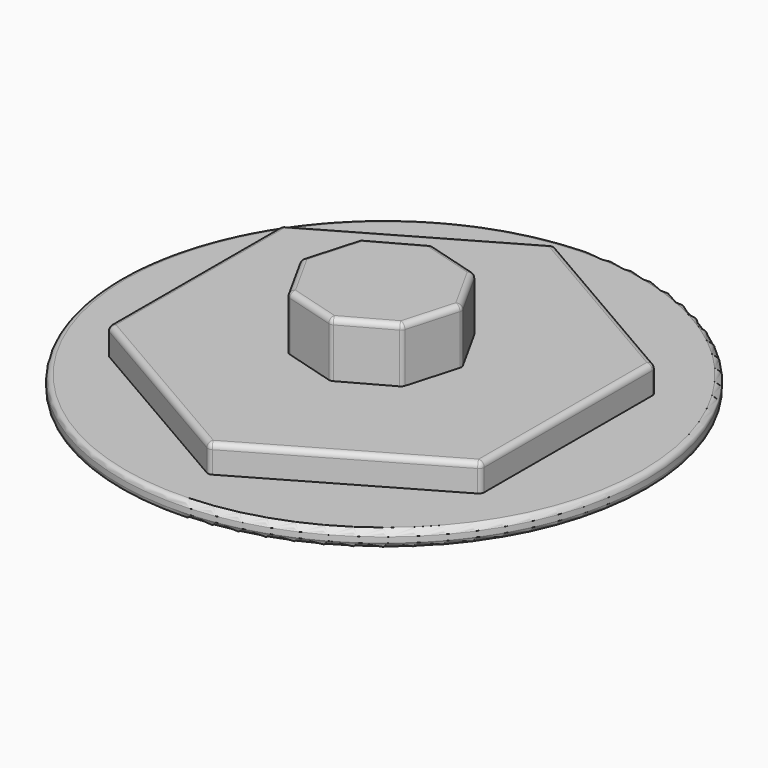
from build123d import *

# Parameters (mm, degrees)
F0_R     = 48
F1_DEPTH = 3
F3_DEPTH = 5
F5_DEPTH = 10
F6_R     = 43
F7_DEPTH = 2
F8_R     = 1


with BuildPart() as f1:
    # F0 (on Top) → F1 (new body)
    with BuildSketch(Plane.XY):
        with Locations((0.272178, 0.272177)):
            Circle(F0_R)
    extrude(amount=F1_DEPTH)

    # F2 (on face) → F3 (join)
    with BuildSketch(Plane.XY.offset(3)):
        Polygon((-0.057956, -39.281055), (33.989413, -19.690719), (34.047369, 19.590336), (0.057956, 39.281055), (-33.989413, 19.690719), (-34.047369, -19.590336), align=None)
    extrude(amount=F3_DEPTH)

    # F4 (on face) → F5 (join)
    with BuildSketch(Plane.XY.offset(8)):
        Polygon((1.531467, -13.495673), (10.625793, -8.459971), (13.495673, 1.531467), (8.459971, 10.625793), (-1.531467, 13.495673), (-10.625793, 8.459971), (-13.495673, -1.531467), (-8.459971, -10.625793), align=None)
    extrude(amount=F5_DEPTH)

    # F6 (on face) → F7 (join)
    with BuildSketch(Plane(origin=(0, 0, 0), x_dir=(1, 0, 0), z_dir=(0, 0, -1))):
        Circle(F6_R)
    extrude(amount=F7_DEPTH)

    # F8
    f8_edges = [f1.edges().sort_by_distance(p)[0] for p in [
        (-16.965728, 29.485887, 8),
        (-34.018391, 0.050192, 8),
        (-17.052663, -29.435695, 8),
        (16.965728, -29.485887, 8),
        (34.018391, -0.050192, 8),
        (17.052663, 29.435695, 8),
        (-6.07863, 10.977822, 18),
        (-12.060733, 3.464252, 18),
        (-10.977822, -6.07863, 18),
        (-3.464252, -12.060733, 18),
        (6.07863, -10.977822, 18),
        (12.060733, -3.464252, 18),
        (10.977822, 6.07863, 18),
        (3.464252, 12.060733, 18),
        (-8.459971, -10.625793, 13),
        (1.531467, -13.495673, 13),
        (10.625793, -8.459971, 13),
        (13.495673, 1.531467, 13),
        (8.459971, 10.625793, 13),
        (-1.531467, 13.495673, 13),
        (-10.625793, 8.459971, 13),
        (-13.495673, -1.531467, 13),
        (0.057956, 39.281055, 5.5),
        (34.047369, 19.590336, 5.5),
        (33.989413, -19.690719, 5.5),
        (-0.057956, -39.281055, 5.5),
        (-34.047369, -19.590336, 5.5),
        (-33.989413, 19.690719, 5.5),
        (-47.727822, 0.272177, 3),
        (-47.727822, 0.272177, 0),
        (-43, 0, -2),
    ]]
    fillet(f8_edges, radius=F8_R)


solid = f1.part
